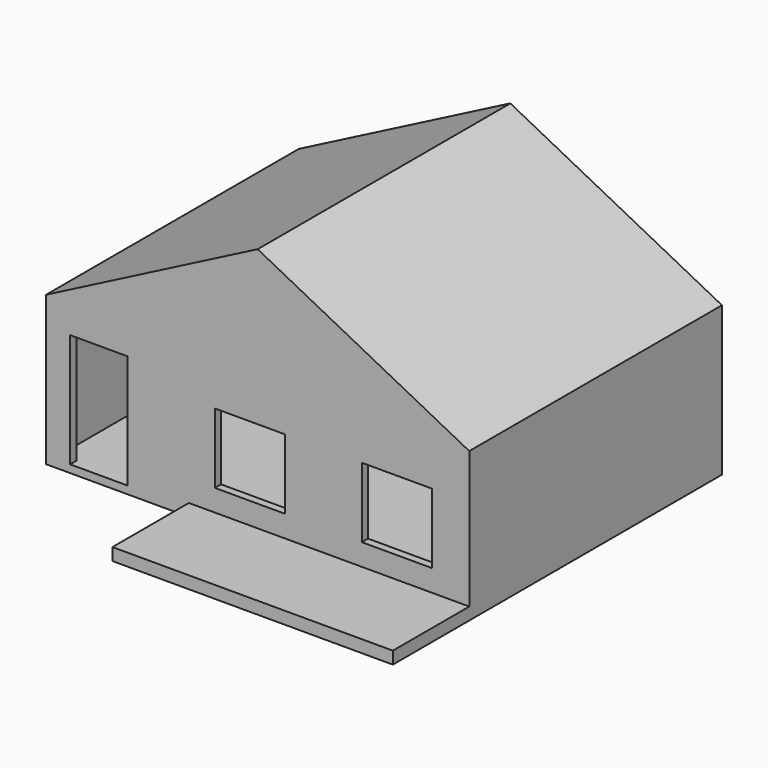
from build123d import *

# Parameters (mm, degrees)
F0_W     = 274.682402
F0_H     = 96.840292
F1_DEPTH = 200
F2_T     = -5
F3_W     = 274.682402
F3_H     = 96.840292
F3_W_2   = 37.139356
F3_H_2   = 73.845126
F3_W_3   = 45.392542
F3_H_3   = 45.392544
F3_W_4   = 45.392528
F4_DEPTH = 5
F6_DEPTH = 205
F7_W     = 182
F7_H     = 62
F8_DEPTH = 8


with BuildPart() as f1:
    # F0 (on Front) → F1 (new body)
    with BuildSketch(Plane.XZ):
        Rectangle(F0_W, F0_H)
    extrude(amount=F1_DEPTH)

    # F2
    f2_openings = [f1.faces().sort_by_distance(p)[0] for p in [
        (0, -200, 0),
    ]]
    offset(amount=F2_T, openings=f2_openings)

    # F3 (on face) → F4 (join)
    with BuildSketch(Plane.XZ.offset(200)):
        Rectangle(F3_W, F3_H)
        with Locations((-103.137672, -6.497583)):
            Rectangle(F3_W_2, F3_H_2, mode=Mode.SUBTRACT)
        with Locations((-5.090558, -3.619425)):
            Rectangle(F3_W_3, F3_H_3, mode=Mode.SUBTRACT)
        with Locations((90.336949, -3.619425)):
            Rectangle(F3_W_4, F3_H_3, mode=Mode.SUBTRACT)
    extrude(amount=F4_DEPTH)

    # F5 (on face) → F6 (join)
    with BuildSketch(Plane(origin=(0, 0, 0), x_dir=(-1, 0, 0), z_dir=(0, 1, 0))):
        Polygon((0, 119.112626), (-137.341201, 48.420146), (137.341201, 48.420146), align=None)
    extrude(amount=-F6_DEPTH)

    # F7 (on face) → F8 (join)
    with BuildSketch(Plane(origin=(0, 0, -48.420146), x_dir=(1, 0, 0), z_dir=(0, 0, -1))):
        with Locations((46.341201, 236)):
            Rectangle(F7_W, F7_H)
    extrude(amount=-F8_DEPTH)


solid = f1.part
